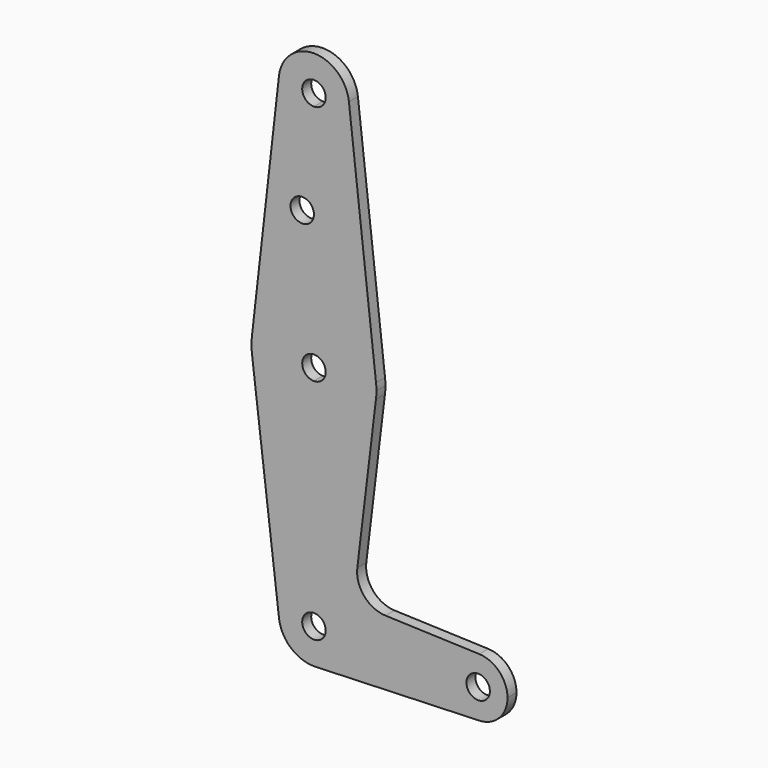
from build123d import *

# Parameters (mm, degrees)
F0_R     = 3.175
F1_DEPTH = 3.048


with BuildPart() as f1:
    # F0 (on Front) → F1 (new body)
    with BuildSketch(Plane.XZ):
        with BuildLine():
            ThreePointArc((-9.4640900149, 64.5754651042), (-7.1052596757, 57.1564276672), (0, 53.975))
            ThreePointArc((0, 53.975), (6.7351920908, 56.7648079092), (9.525, 63.5))
            ThreePointArc((9.525, 63.5), (9.5097603122, 64.0385942853), (9.4640900149, 64.5754651042))
            ThreePointArc((9.4640900149, 64.5754651042), (0, 73.025), (-9.4640900149, 64.5754651042))
        make_face()
        with BuildLine():
            ThreePointArc((3.175, 63.5), (2.2450640303, 61.2549359697), (0, 60.325))
            ThreePointArc((0, 60.325), (-2.2450640303, 65.7450640303), (3.175, 63.5))
        make_face(mode=Mode.SUBTRACT)
        with BuildLine():
            ThreePointArc((9.525, 63.5), (6.7351920908, 56.7648079092), (0, 53.975))
            Line((0, 53.975), (0, 34.6158569941))
            Line((0, 34.6158569941), (0, 15.0010077439))
            ThreePointArc((0, 15.0010077439), (11.2621557117, 10.7050856854), (16.8022132997, 0))
            Line((16.8022132997, 0), (9.4640900149, 64.5754651042))
            ThreePointArc((9.4640900149, 64.5754651042), (9.5097603122, 64.0385942853), (9.525, 63.5))
        make_face()
        with BuildLine():
            Line((0, 34.6158569941), (0, 53.975))
            ThreePointArc((0, 53.975), (-7.1052596757, 57.1564276672), (-9.4640900149, 64.5754651042))
            Line((-9.4640900149, 64.5754651042), (-16.8022132997, 0))
            ThreePointArc((-16.8022132997, 0), (-11.2621557117, 10.7050856854), (0, 15.0010077439))
            Line((0, 15.0010077439), (0, 34.6158569941))
        make_face()
        with Locations((-3.175, 34.6158569941)):
            Circle(F0_R, mode=Mode.SUBTRACT)
        with BuildLine():
            ThreePointArc((16.8022132997, 0), (11.2621557117, 10.7050856854), (0, 15.0010077439))
            Line((0, 15.0010077439), (0, 1.2656569941))
            ThreePointArc((0, 1.2656569941), (2.2450640303, 0.3357210243), (3.175, -1.9093430059))
            ThreePointArc((3.175, -1.9093430059), (2.2450640303, -4.1544070362), (0, -5.0843430059))
            Line((0, -5.0843430059), (0, -18.8196937558))
            ThreePointArc((0, -18.8196937558), (11.2176297277, -14.5633836956), (16.788338115, -3.9370673019))
            ThreePointArc((16.788338115, -3.9370673019), (16.8798200303, -2.9250389377), (16.9103507498, -1.9093430059))
            ThreePointArc((16.9103507498, -1.9093430059), (16.8832947429, -0.9531416121), (16.8022132997, 0))
        make_face()
        with BuildLine():
            Line((0, 1.2656569941), (0, 15.0010077439))
            ThreePointArc((0, 15.0010077439), (-11.2621557117, 10.7050856854), (-16.8022132997, 0))
            ThreePointArc((-16.8022132997, 0), (-16.9102457351, -1.9689388333), (-16.788338115, -3.9370673019))
            ThreePointArc((-16.788338115, -3.9370673019), (-11.2176297277, -14.5633836956), (0, -18.8196937558))
            Line((0, -18.8196937558), (0, -5.0843430059))
            ThreePointArc((0, -5.0843430059), (-3.175, -1.9093430059), (0, 1.2656569941))
        make_face()
        with BuildLine():
            ThreePointArc((0, -18.8196937558), (-11.2176297277, -14.5633836956), (-16.788338115, -3.9370673019))
            Line((-16.788338115, -3.9370673019), (-9.4562746161, -64.6421450805))
            ThreePointArc((-9.4562746161, -64.6421450805), (-7.1275717075, -57.1815075727), (0, -53.975))
            Line((0, -53.975), (0, -18.8196937558))
        make_face()
        with BuildLine():
            ThreePointArc((16.788338115, -3.9370673019), (11.2176297277, -14.5633836956), (0, -18.8196937558))
            Line((0, -18.8196937558), (0, -53.975))
            ThreePointArc((0, -53.975), (6.7351920908, -56.7648079092), (9.525, -63.5))
            Line((9.525, -63.5), (36.5125, -63.5))
            ThreePointArc((36.5125, -63.5), (38.9384772185, -57.7879930953), (44.7334821429, -55.5675637964))
            Line((44.7334821429, -55.5675637964), (19.3455723287, -54.6602739182))
            ThreePointArc((19.3455723287, -54.6602739182), (13.5871197785, -51.8818879335), (11.73667083, -45.7618353894))
            Line((11.73667083, -45.7618353894), (16.788338115, -3.9370673019))
        make_face()
        with BuildLine():
            ThreePointArc((0, -53.975), (-7.1275717075, -57.1815075727), (-9.4562746161, -64.6421450805))
            ThreePointArc((-9.4562746161, -64.6421450805), (-6.1901862422, -70.7392830644), (0.3401785714, -73.0189234444))
            ThreePointArc((0.3401785714, -73.0189234444), (6.8544082857, -70.1138273378), (9.525, -63.5))
            Line((9.525, -63.5), (3.175, -63.5))
            ThreePointArc((3.175, -63.5), (-2.2450640303, -65.7450640303), (0, -60.325))
            Line((0, -60.325), (0, -53.975))
        make_face()
        with BuildLine():
            ThreePointArc((9.525, -63.5), (6.8544082857, -70.1138273378), (0.3401785714, -73.0189234444))
            Line((0.3401785714, -73.0189234444), (44.7334821429, -71.4324362036))
            ThreePointArc((44.7334821429, -71.4324362036), (38.9384772185, -69.2120069047), (36.5125, -63.5))
            Line((36.5125, -63.5), (9.525, -63.5))
        make_face()
        with BuildLine():
            ThreePointArc((36.5125, -63.5), (38.9384772185, -69.2120069047), (44.7334821429, -71.4324362036))
            ThreePointArc((44.7334821429, -71.4324362036), (50.1620069047, -69.0115227815), (52.3875, -63.5))
            ThreePointArc((52.3875, -63.5), (50.1620069047, -57.9884772185), (44.7334821429, -55.5675637964))
            ThreePointArc((44.7334821429, -55.5675637964), (38.9384772185, -57.7879930953), (36.5125, -63.5))
        make_face()
        with BuildLine():
            ThreePointArc((47.625, -63.5), (44.45, -66.675), (41.275, -63.5))
            ThreePointArc((41.275, -63.5), (44.45, -60.325), (47.625, -63.5))
        make_face(mode=Mode.SUBTRACT)
        with BuildLine():
            ThreePointArc((9.525, -63.5), (6.7351920908, -56.7648079092), (0, -53.975))
            Line((0, -53.975), (0, -60.325))
            ThreePointArc((0, -60.325), (2.2450640303, -61.2549359697), (3.175, -63.5))
            Line((3.175, -63.5), (9.525, -63.5))
        make_face()
    extrude(amount=F1_DEPTH)


solid = f1.part
